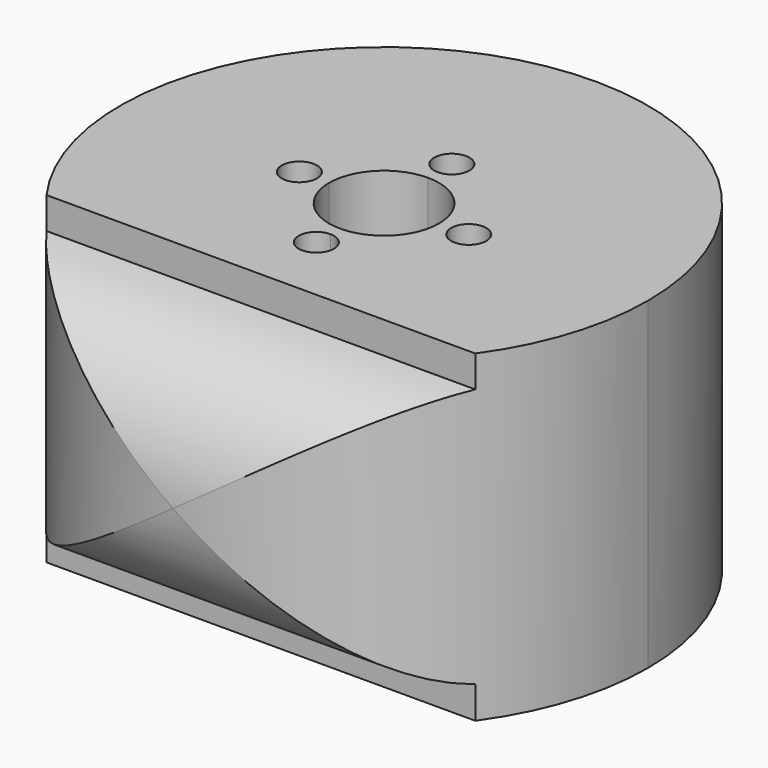
from build123d import *

# Parameters (mm, degrees)
F0_R     = 30.48
F0_R_2   = 2.032
F1_DEPTH = 37.338
F3_DEPTH = 39.58267
F4_DEPTH = 55.88364


with BuildPart() as f1:
    # F0 (on Top) → F1 (new body)
    with BuildSketch(Plane.XY):
        Circle(F0_R)
        with BuildLine():
            ThreePointArc((2.032, -9.779), (-1.4368409794, -11.2158409794), (0, -7.747))
            ThreePointArc((0, -7.747), (1.4368409794, -8.3421590206), (2.032, -9.779))
        make_face(mode=Mode.SUBTRACT)
        with Locations((-9.779, 0)):
            Circle(F0_R_2, mode=Mode.SUBTRACT)
        with BuildLine():
            ThreePointArc((0, 6.35), (4.4901280605, 4.4901280605), (6.35, 0))
            ThreePointArc((6.35, 0), (4.4901280605, -4.4901280605), (0, -6.35))
            ThreePointArc((0, -6.35), (-4.4901280605, -4.4901280605), (-6.35, 0))
            ThreePointArc((-6.35, 0), (-4.4901280605, 4.4901280605), (0, 6.35))
        make_face(mode=Mode.SUBTRACT)
        with BuildLine():
            ThreePointArc((11.811, 0), (9.779, -2.032), (7.747, 0))
            ThreePointArc((7.747, 0), (9.779, 2.032), (11.811, 0))
        make_face(mode=Mode.SUBTRACT)
        with BuildLine():
            ThreePointArc((2.032, 9.779), (1.4368409794, 8.3421590206), (0, 7.747))
            ThreePointArc((0, 7.747), (-1.4368409794, 11.2158409794), (2.032, 9.779))
        make_face(mode=Mode.SUBTRACT)
    extrude(amount=F1_DEPTH)

    # F2 (on Right) → F3 (cut)
    with BuildSketch(Plane.YZ):
        with BuildLine():
            Line((-30.48, 37.3969972134), (-30.48, 18.6984986067))
            ThreePointArc((-30.48, 18.6984986067), (-26.8779716111, 28.5202881076), (-17.78, 33.6844986067))
            Line((-17.78, 33.6844986067), (-17.78, 37.3969972134))
            Line((-17.78, 37.3969972134), (-30.48, 37.3969972134))
        make_face()
        with BuildLine():
            Line((-30.48, 0), (-17.78, 0))
            Line((-17.78, 0), (-17.78, 3.7124986067))
            ThreePointArc((-17.78, 3.7124986067), (-26.8779716111, 8.8767091058), (-30.48, 18.6984986067))
            Line((-30.48, 18.6984986067), (-30.48, 0))
        make_face()
    extrude(amount=-F3_DEPTH, mode=Mode.SUBTRACT)

    # F2 (on Right) → F4 (cut)
    with BuildSketch(Plane.YZ):
        with BuildLine():
            Line((-30.48, 37.3969972134), (-30.48, 18.6984986067))
            ThreePointArc((-30.48, 18.6984986067), (-26.8779716111, 28.5202881076), (-17.78, 33.6844986067))
            Line((-17.78, 33.6844986067), (-17.78, 37.3969972134))
            Line((-17.78, 37.3969972134), (-30.48, 37.3969972134))
        make_face()
        with BuildLine():
            Line((-30.48, 0), (-17.78, 0))
            Line((-17.78, 0), (-17.78, 3.7124986067))
            ThreePointArc((-17.78, 3.7124986067), (-26.8779716111, 8.8767091058), (-30.48, 18.6984986067))
            Line((-30.48, 18.6984986067), (-30.48, 0))
        make_face()
    extrude(amount=F4_DEPTH, mode=Mode.SUBTRACT)


solid = f1.part
